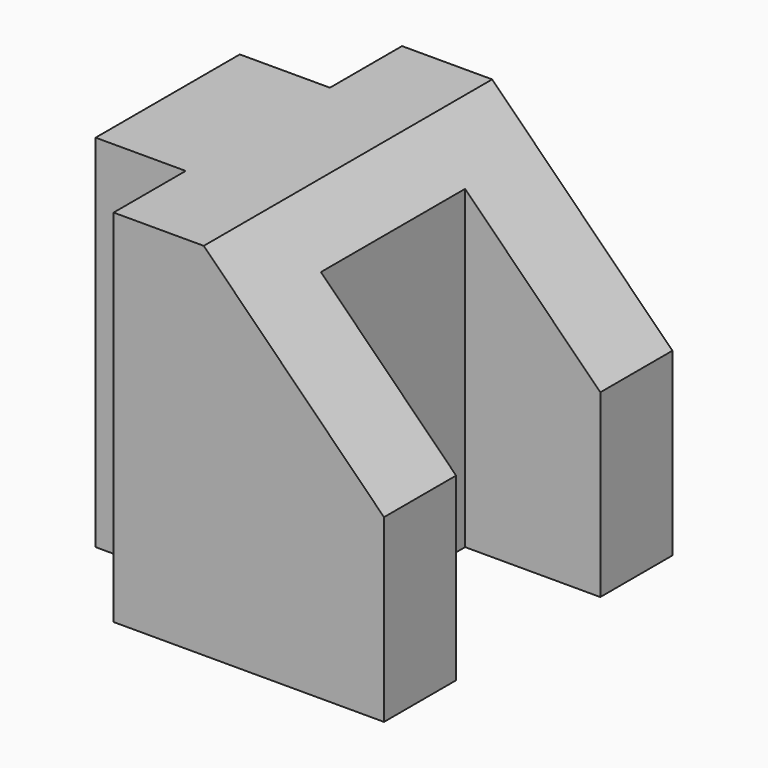
from build123d import *

# Parameters (mm, degrees)
F0_W     = 25.4
F0_H     = 25.4
F1_DEPTH = 25.4
F2_W     = 6.35
F2_H     = 6.35
F2_W_2   = 9.525
F2_H_2   = 12.7
F3_DEPTH = 25.4
F5_DEPTH = 76.2


with BuildPart() as f1:
    # F0 (on Front) → F1 (new body)
    with BuildSketch(Plane.XZ):
        with Locations((12.7, 12.7)):
            Rectangle(F0_W, F0_H)
    extrude(amount=F1_DEPTH)

    # F2 (on face) → F3 (cut)
    with BuildSketch(Plane.XY.offset(25.4)):
        with Locations((3.175, -3.175)):
            Rectangle(F2_W, F2_H)
        with Locations((3.175, -22.225)):
            Rectangle(F2_W, F2_H)
        with Locations((20.6375, -12.7)):
            Rectangle(F2_W_2, F2_H_2)
    extrude(amount=-F3_DEPTH, mode=Mode.SUBTRACT)

    # F4 (on face) → F5 (cut)
    with BuildSketch(Plane.XZ.offset(25.4)):
        Polygon((12.7, 25.4), (25.4, 12.7), (25.4, 25.4), align=None)
    extrude(amount=-F5_DEPTH, mode=Mode.SUBTRACT)


solid = f1.part
